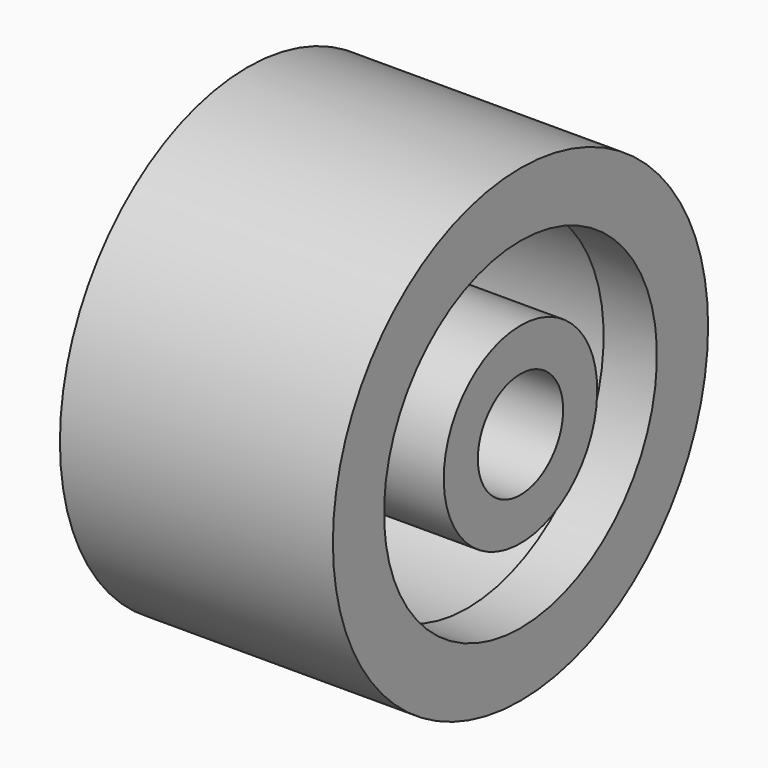
from build123d import *

# Parameters (mm, degrees)
F0_W = 25
F0_H = 4


with BuildPart() as f1:
    # F0 (on Front) → F1 (revolve)
    with BuildSketch(Plane.XZ):
        with Locations((-0.5, 7)):
            Rectangle(F0_W, F0_H)
        Polygon((-13.609726, 22), (-13.609726, 16), (-8.609726, 16), (-8.609726, 17), (7, 17), (7, 16), (12, 16), (12, 22), align=None)
    revolve(axis=Axis((-0.374998, 0, 0), (1, 0, 0)))


solid = f1.part
